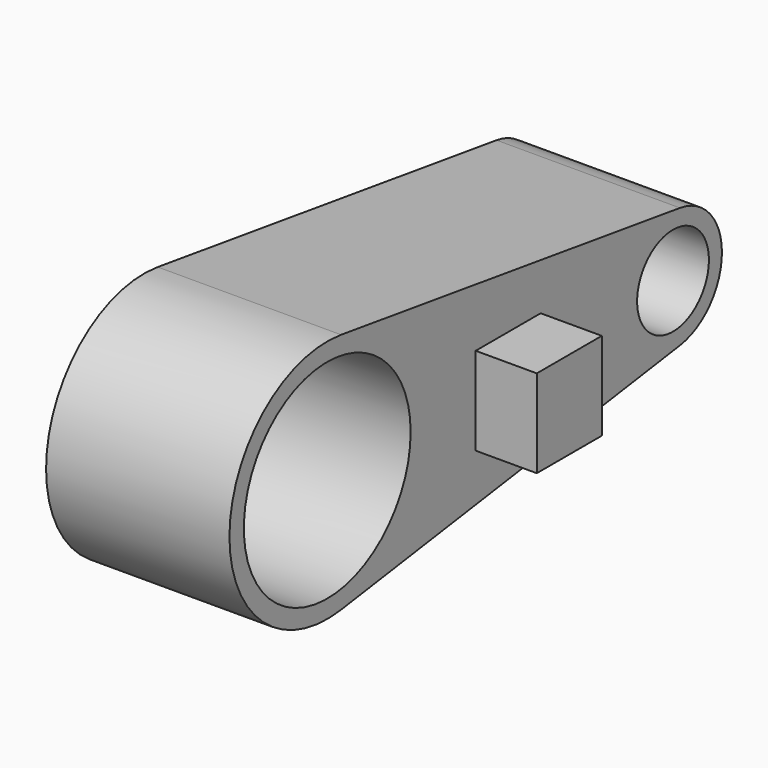
from build123d import *

# Parameters (mm, degrees)
F1_DEPTH = 76.2
F2_R     = 43.31301
F2_R_2   = 18.649778
F3_DEPTH = 63.5
F4_W     = 33.762566
F4_H     = 36.540501
F5_DEPTH = 25.4


with BuildPart() as f1:
    # F0 (on Right) → F1 (new body)
    with BuildSketch(Plane.YZ):
        with BuildLine():
            ThreePointArc((-108.063558, -50.289434), (-76.870702, -33.284248), (-64.447763, 0))
            ThreePointArc((-64.447763, 0), (-76.870702, 33.284248), (-108.063558, 50.289434))
            ThreePointArc((-108.063558, 50.289434), (-166.047763, 0), (-108.063558, -50.289434))
        make_face()
        with BuildLine():
            ThreePointArc((-108.063558, 50.289434), (-76.870702, 33.284248), (-64.447763, 0))
            ThreePointArc((-64.447763, 0), (-76.870702, -33.284248), (-108.063558, -50.289434))
            Line((-108.063558, -50.289434), (67.949462, -25.144717))
            ThreePointArc((67.949462, -25.144717), (38.957359, 0), (67.949462, 25.144717))
            Line((67.949462, 25.144717), (-108.063558, 50.289434))
        make_face()
        with BuildLine():
            ThreePointArc((89.757359, 0), (83.54589, 16.642124), (67.949462, 25.144717))
            ThreePointArc((67.949462, 25.144717), (38.957359, 0), (67.949462, -25.144717))
            ThreePointArc((67.949462, -25.144717), (83.54589, -16.642124), (89.757359, 0))
        make_face()
    extrude(amount=F1_DEPTH)

    # F2 (on face) → F3 (cut)
    with BuildSketch(Plane.YZ.offset(76.2)):
        with Locations((-115.247763, 0)):
            Circle(F2_R)
        with Locations((64.357359, 0)):
            Circle(F2_R_2)
    extrude(amount=-F3_DEPTH, mode=Mode.SUBTRACT)

    # F4 (on face) → F5 (join)
    with BuildSketch(Plane.YZ.offset(76.2)):
        with Locations((-21.275819, -2.24594)):
            Rectangle(F4_W, F4_H)
    extrude(amount=F5_DEPTH)


solid = f1.part
